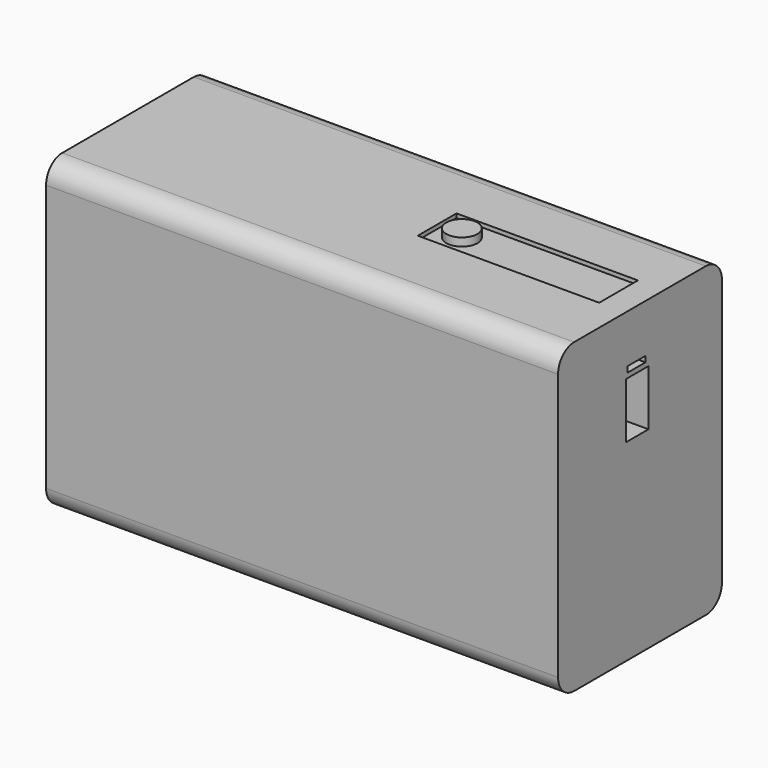
from build123d import *

# Parameters (mm, degrees)
F0_W      = 127
F0_H      = 76.2
F1_DEPTH  = 50.8
F2_R      = 5
F3_R      = 5
F4_R      = 5
F5_W      = 7
F5_H      = 13.8
F6_DEPTH  = 16.4
F7_W      = 5.596507
F7_H      = 1.424566
F8_DEPTH  = 13.4
F9_W      = 45
F9_H      = 12
F10_DEPTH = 1
F11_R     = 3.85898
F12_DEPTH = 2
F13_W     = 53.570701
F13_H     = 22.736654
F14_DEPTH = 15
F15_W     = 33.673272
F15_H     = 8.921977
F16_DEPTH = 15


with BuildPart() as f1:
    # F0 (on Front) → F1 (new body)
    with BuildSketch(Plane.XZ):
        Rectangle(F0_W, F0_H)
    extrude(amount=F1_DEPTH)

    # F2
    f2_edges = [f1.edges().sort_by_distance(p)[0] for p in [
        (0, -50.8, 38.1),
    ]]
    fillet(f2_edges, radius=F2_R)

    # F3
    f3_edges = [f1.edges().sort_by_distance(p)[0] for p in [
        (0, 0, 38.1),
    ]]
    fillet(f3_edges, radius=F3_R)

    # F4
    f4_edges = [f1.edges().sort_by_distance(p)[0] for p in [
        (0, -50.8, -38.1),
        (0, 0, -38.1),
    ]]
    fillet(f4_edges, radius=F4_R)

    # F5 (on face) → F6 (cut)
    with BuildSketch(Plane.YZ.offset(63.5)):
        with Locations((-26.263526, 16.592734)):
            Rectangle(F5_W, F5_H)
    extrude(amount=-F6_DEPTH, mode=Mode.SUBTRACT)

    # F7 (on face) → F8 (cut)
    with BuildSketch(Plane.YZ.offset(63.5)):
        with Locations((-26.507245, 25.401587)):
            Rectangle(F7_W, F7_H)
    extrude(amount=-F8_DEPTH, mode=Mode.SUBTRACT)

    # F9 (on face) → F10 (cut)
    with BuildSketch(Plane.XY.offset(38.1)):
        with Locations((34.471648, -23.887878)):
            Rectangle(F9_W, F9_H)
    extrude(amount=-F10_DEPTH, mode=Mode.SUBTRACT)

    # F11 (on face) → F12 (join)
    with BuildSketch(Plane.XY.offset(37.1)):
        with Locations((17.887004, -23.616357)):
            Circle(F11_R)
    extrude(amount=F12_DEPTH)

    # F13 (on face) → F14 (cut)
    with BuildSketch(Plane(origin=(0, 0, -38.1), x_dir=(1, 0, 0), z_dir=(0, 0, -1))):
        with Locations((-36.71465, 25.614712)):
            Rectangle(F13_W, F13_H)
        with Locations((-36.71465, 25.614712)):
            Rectangle(F13_W, F13_H)
    extrude(amount=-F14_DEPTH, mode=Mode.SUBTRACT)

    # F15 (on face) → F16 (join)
    with BuildSketch(Plane(origin=(0, 0, -23.1), x_dir=(1, 0, 0), z_dir=(0, 0, -1))):
        with Locations((-26.765935, 25.326905)):
            Rectangle(F15_W, F15_H)
    extrude(amount=F16_DEPTH)


solid = f1.part
